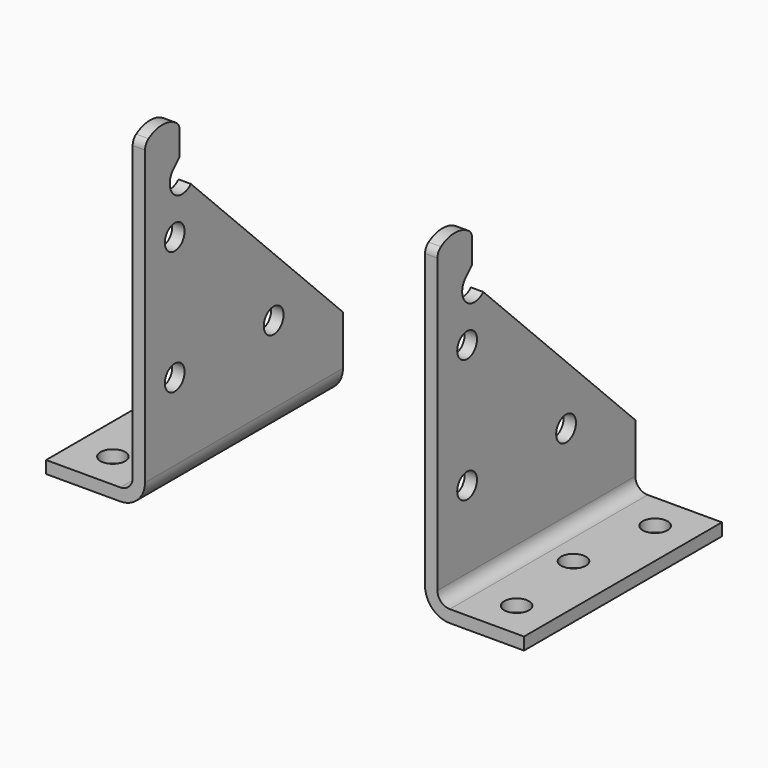
from build123d import *

# Parameters (mm, degrees)
F0_R     = 3.175
F1_DEPTH = 3.175
F3_DEPTH = 63.5
F4_R     = 3.175
F5_DEPTH = 3.176


with BuildPart() as f1:
    # F0 (on Right) → F1 (new body)
    with BuildSketch(Plane.YZ):
        with BuildLine():
            ThreePointArc((-52.39004, 75.12195), (-52.687788, 76.315225), (-53.511226, 77.228741))
            ThreePointArc((-53.511226, 77.228741), (-57.94502, 78.58252), (-62.378814, 77.228741))
            ThreePointArc((-62.378814, 77.228741), (-63.202252, 76.315225), (-63.5, 75.12195))
            Line((-63.5, 75.12195), (-63.5, 0))
            Line((-63.5, 0), (0, 0))
            Line((0, 0), (0, 12.7))
            Line((0, 12.7), (-48.789588, 61.489588))
            ThreePointArc((-48.789588, 61.489588), (-54.400452, 61.489588), (-54.400452, 67.100452))
            Line((-54.400452, 67.100452), (-52.39004, 69.110864))
            Line((-52.39004, 69.110864), (-52.39004, 75.12195))
        make_face()
        with Locations((-53.975, 19.84502)):
            Circle(F0_R, mode=Mode.SUBTRACT)
        with Locations((-22.225, 19.84502)):
            Circle(F0_R, mode=Mode.SUBTRACT)
        with Locations((-53.975, 51.59502)):
            Circle(F0_R, mode=Mode.SUBTRACT)
    extrude(amount=-F1_DEPTH)

    # F2 (on face) → F3 (join, through all)
    with BuildSketch(Plane.XZ.offset(63.5)):
        with BuildLine():
            Line((0, 0), (-3.175, 0))
            ThreePointArc((-3.175, 0), (-1.315128, -4.490128), (3.175, -6.35))
            Line((3.175, -6.35), (22.225, -6.35))
            Line((22.225, -6.35), (22.225, -3.175))
            Line((22.225, -3.175), (3.175, -3.175))
            ThreePointArc((3.175, -3.175), (0.929936, -2.245064), (0, 0))
        make_face()
    extrude(amount=-F3_DEPTH)

    # F4 (on face) → F5 (cut, through all)
    with BuildSketch(Plane.XY.offset(-3.175)):
        with Locations((12.7, -53.975)):
            Circle(F4_R)
        with Locations((9.525, -31.75)):
            Circle(F4_R)
        with Locations((12.7, -9.525)):
            Circle(F4_R)
    extrude(amount=-F5_DEPTH, mode=Mode.SUBTRACT)


with BuildPart() as f7_1:
    # F7: instance of F1
    add(f1.part.mirror(Plane.YZ.offset(-39.116)))


solid = Compound([f1.part, f7_1.part])
